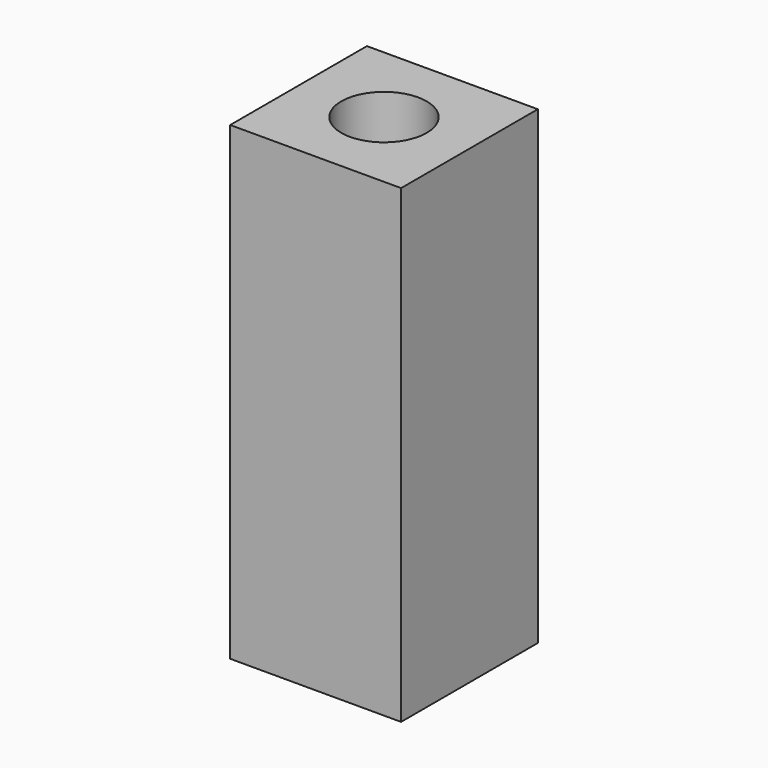
from build123d import *

# Parameters (mm, degrees)
F1_DEPTH = 279.4


with BuildPart() as f1:
    # F0 (on Top) → F1 (new body)
    with BuildSketch(Plane.XY):
        with BuildLine():
            ThreePointArc((-25.4, 0), (0, 25.4), (25.4, 0))
            Line((25.4, 0), (50.8, 0))
            Line((50.8, 0), (50.8, 50.8))
            Line((50.8, 50.8), (-50.8, 50.8))
            Line((-50.8, 50.8), (-50.8, 0))
            Line((-50.8, 0), (-25.4, 0))
        make_face()
        with BuildLine():
            Line((50.8, 0), (25.4, 0))
            ThreePointArc((25.4, 0), (0, -25.4), (-25.4, 0))
            Line((-25.4, 0), (-50.8, 0))
            Line((-50.8, 0), (-50.8, -50.8))
            Line((-50.8, -50.8), (50.8, -50.8))
            Line((50.8, -50.8), (50.8, 0))
        make_face()
    extrude(amount=F1_DEPTH)


solid = f1.part
